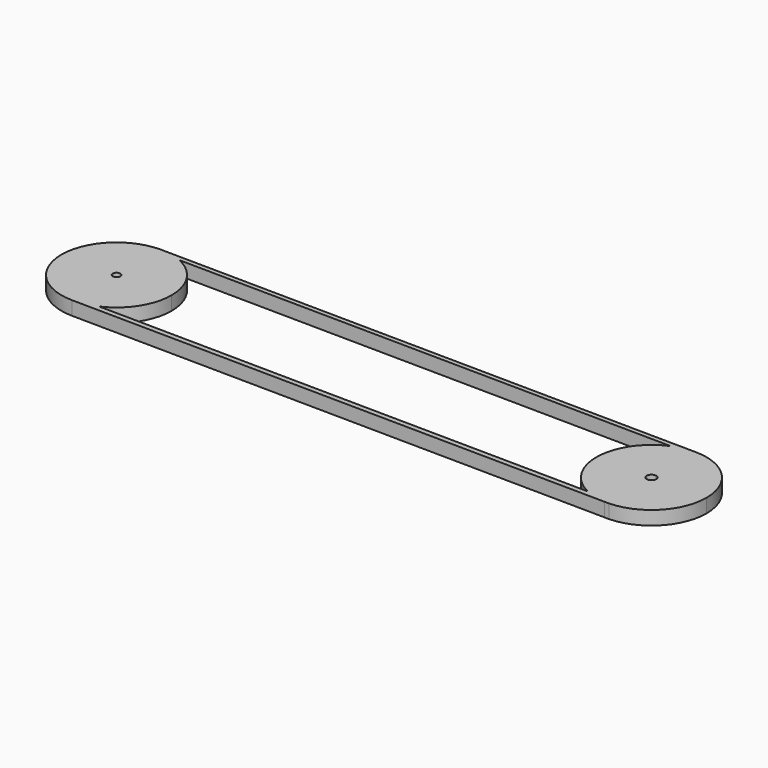
from build123d import *

# Parameters (mm, degrees)
F0_R     = 6.857144
F0_R_2   = 8.619013
F1_DEPTH = 25


with BuildPart() as f1:
    # F0 (on Top) → F1 (new body)
    with BuildSketch(Plane.XY):
        with BuildLine():
            ThreePointArc((-449.263487, -85.308535), (-406.531426, -48.410833), (-390.594079, 5.750689))
            ThreePointArc((-390.594079, 5.750689), (-406.588362, 60.000477), (-449.454868, 96.896536))
            ThreePointArc((-449.454868, 96.896536), (-468.337374, 103.242428), (-488.103069, 105.719659))
            Line((-488.103069, 105.719659), (-490.684073, 105.750649))
            ThreePointArc((-490.684073, 105.750649), (-590.592557, 6.302449), (-491.787571, -94.242189))
            ThreePointArc((-491.787571, -94.242189), (-470.034428, -92.112996), (-449.263487, -85.308535))
        make_face()
        with Locations((-490.594079, 5.750689)):
            Circle(F0_R, mode=Mode.SUBTRACT)
        with BuildLine():
            ThreePointArc((-488.103069, 105.719659), (-468.337374, 103.242428), (-449.454868, 96.896536))
            Line((-449.454868, 96.896536), (451.353228, 86.080583))
            ThreePointArc((451.353228, 86.080583), (471.006509, 92.091612), (491.473573, 93.957937))
            Line((491.473573, 93.957937), (-488.103069, 105.719659))
        make_face()
        with BuildLine():
            Line((446.615254, -96.00154), (-449.263487, -85.308535))
            ThreePointArc((-449.263487, -85.308535), (-470.034428, -92.112996), (-491.787571, -94.242189))
            Line((-491.787571, -94.242189), (485.128411, -105.902436))
            ThreePointArc((485.128411, -105.902436), (465.374728, -102.885657), (446.615254, -96.00154))
        make_face()
        with BuildLine():
            Line((-490.684073, 105.750649), (-488.103069, 105.719659))
            ThreePointArc((-488.103069, 105.719659), (-489.393471, 105.743481), (-490.684073, 105.750649))
        make_face()
        with BuildLine():
            ThreePointArc((491.473573, 93.957937), (471.006509, 92.091612), (451.353228, 86.080583))
            ThreePointArc((451.353228, 86.080583), (390.306803, -3.433627), (446.615254, -96.00154))
            ThreePointArc((446.615254, -96.00154), (465.374728, -102.885657), (485.128411, -105.902436))
            Line((485.128411, -105.902436), (493.0324, -105.996776))
            ThreePointArc((493.0324, -105.996776), (561.952612, -75.763101), (590.272965, -6.034856))
            ThreePointArc((590.272965, -6.034856), (561.406856, 64.250062), (491.473573, 93.957937))
        make_face()
        with Locations((490.272965, -6.034856)):
            Circle(F0_R_2, mode=Mode.SUBTRACT)
        with BuildLine():
            Line((493.0324, -105.996776), (485.128411, -105.902436))
            ThreePointArc((485.128411, -105.902436), (489.079473, -106.027733), (493.0324, -105.996776))
        make_face()
    extrude(amount=F1_DEPTH)


solid = f1.part
